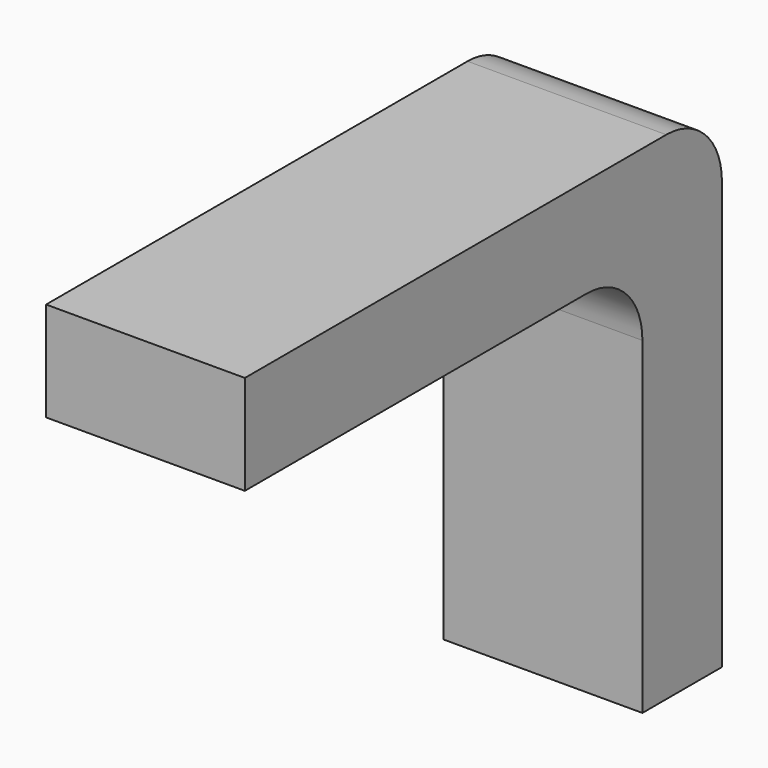
from build123d import *

# Parameters (mm, degrees)
F0_W     = 20
F0_H     = 50
F1_DEPTH = 10
F2_W     = 20
F2_H     = 10
F3_DEPTH = 50
F4_R     = 7


with BuildPart() as f1:
    # F0 (on Front) → F1 (new body)
    with BuildSketch(Plane.XZ):
        with Locations((10, 25)):
            Rectangle(F0_W, F0_H)
    extrude(amount=F1_DEPTH)

    # F2 (on face) → F3 (join)
    with BuildSketch(Plane.XZ.offset(10)):
        with Locations((10, 45)):
            Rectangle(F2_W, F2_H)
    extrude(amount=F3_DEPTH)

    # F4
    f4_edges = [f1.edges().sort_by_distance(p)[0] for p in [
        (10, 0, 50),
        (10, -10, 40),
    ]]
    fillet(f4_edges, radius=F4_R)


solid = f1.part
